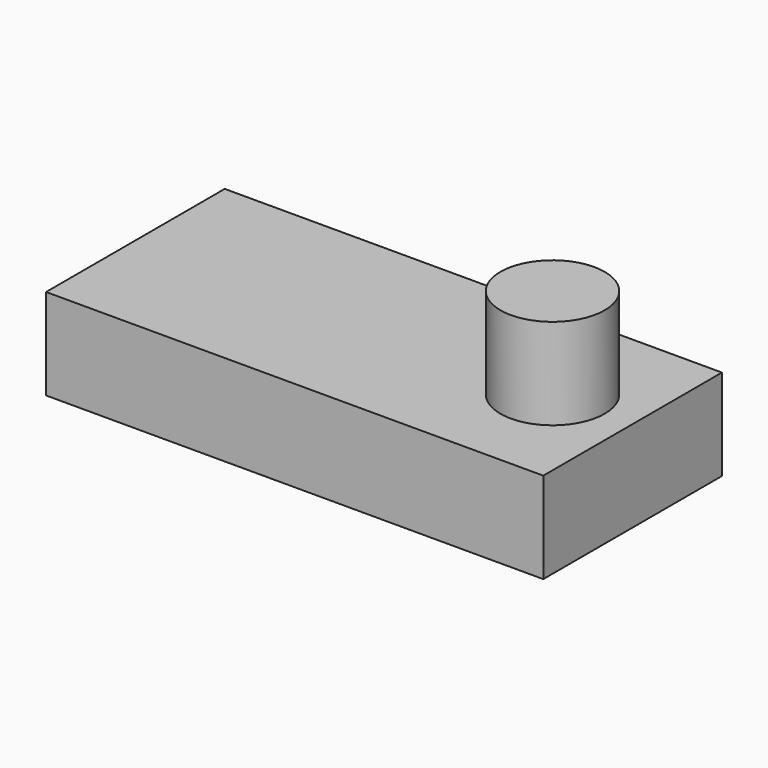
from build123d import *

# Parameters (mm, degrees)
F0_R     = 7.265569
F1_DEPTH = 25.4
F0_W     = 69.311612
F0_H     = 31.131482
F2_DEPTH = 12.7


with BuildPart() as f1:
    # F0 (on Top) → F1 (new body)
    with BuildSketch(Plane.XY):
        with Locations((23.495462, 0)):
            Circle(F0_R)
    extrude(amount=F1_DEPTH)

    # F0 (on Top) → F2 (join)
    with BuildSketch(Plane.XY):
        Rectangle(F0_W, F0_H)
        with Locations((23.495462, 0)):
            Circle(F0_R, mode=Mode.SUBTRACT)
    extrude(amount=F2_DEPTH)


solid = f1.part
